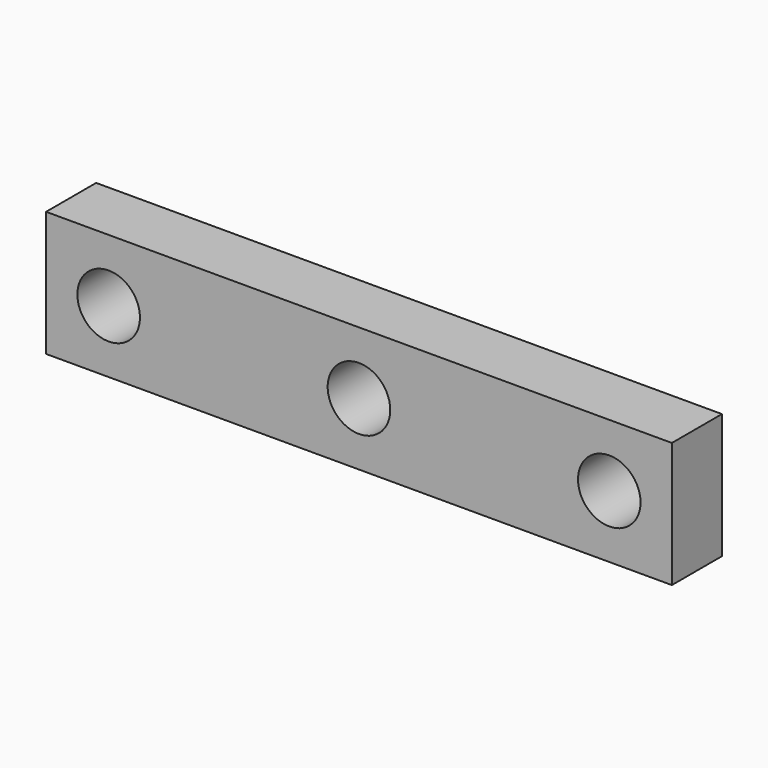
from build123d import *

# Parameters (mm, degrees)
F1_W     = 50
F1_H     = 10
F1_R     = 2.5
F2_DEPTH = 5


with BuildPart() as f2:
    # F1 (on face) → F2 (new body)
    with BuildSketch(Plane.XZ):
        Rectangle(F1_W, F1_H)
        with Locations((-20, 0)):
            Circle(F1_R, mode=Mode.SUBTRACT)
        Circle(F1_R, mode=Mode.SUBTRACT)
        with Locations((20, 0)):
            Circle(F1_R, mode=Mode.SUBTRACT)
    extrude(amount=F2_DEPTH)


solid = f2.part
